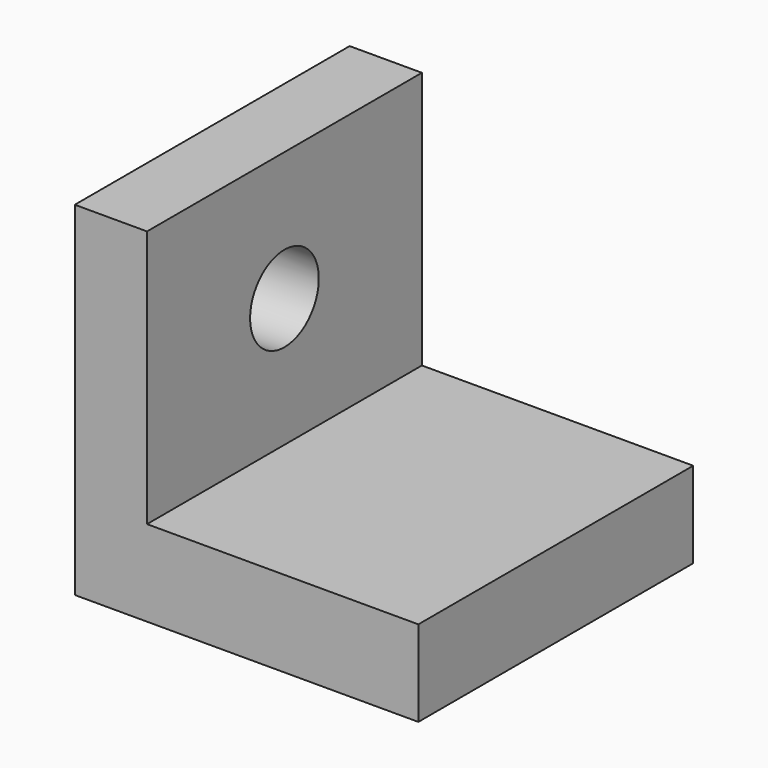
from build123d import *

# Parameters (mm, degrees)
F1_DEPTH = 50.8
F3_D     = 12.7


with BuildPart() as f1:
    # F0 (on Front) → F1 (new body)
    with BuildSketch(Plane.XZ):
        Polygon((-63.304612, 50.8), (-73.985637, 50.8), (-73.985637, 0), (-23.185637, 0), (-23.185637, 12.7), (-63.304612, 12.7), align=None)
    extrude(amount=F1_DEPTH)

    # F3 (through all)
    with Locations(Plane.YZ.offset(-63.304612)):
        with Locations((-25.4, 31.75)):
            Hole(F3_D / 2)


solid = f1.part
